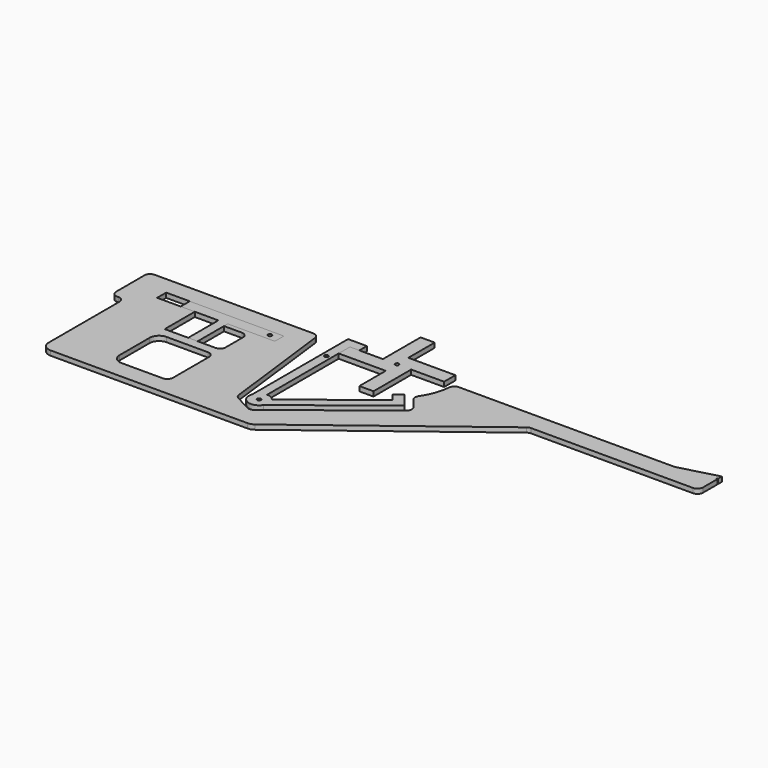
from build123d import *

# Parameters (mm, degrees)
F1_DEPTH = 5
F2_R     = 2
F3_DEPTH = 5
F4_R     = 2
F5_DEPTH = 5.001
F6_R     = 2
F7_DEPTH = 5
F9_DEPTH = 5


with BuildPart() as f1:
    # F0 (on Top) → F1 (new body)
    with BuildSketch(Plane.XY):
        with BuildLine():
            ThreePointArc((0, 2), (1.414214, 1.414214), (2, 0))
            Line((2, 0), (15, 0))
            Line((15, 0), (50, 0))
            Line((50, 0), (50, 15))
            Line((50, 15), (0, 15))
            Line((0, 15), (0, 2))
        make_face()
        with BuildLine():
            Line((15, 0), (2, 0))
            ThreePointArc((2, 0), (1.414214, -1.414214), (0, -2))
            Line((0, -2), (0, -15))
            Line((0, -15), (0, -50))
            Line((0, -50), (15, -50))
            Line((15, -50), (15, 0))
        make_face()
        with BuildLine():
            Line((0, -15), (0, -2))
            ThreePointArc((0, -2), (-1.414214, -1.414214), (-2, 0))
            Line((-2, 0), (-15, 0))
            Line((-15, 0), (-50, 0))
            Line((-50, 0), (-50, -15))
            Line((-50, -15), (0, -15))
        make_face()
        with BuildLine():
            Line((-15, 0), (-2, 0))
            ThreePointArc((-2, 0), (-1.414214, 1.414214), (0, 2))
            Line((0, 2), (0, 15))
            Line((0, 15), (0, 50))
            Line((0, 50), (-15, 50))
            Line((-15, 50), (-15, 0))
        make_face()
    extrude(amount=F1_DEPTH)


with BuildPart() as f3:
    # F2 (on Top) → F3 (new body)
    with BuildSketch(Plane.XY):
        with BuildLine():
            Line((-50, -110), (-50, 0))
            Line((-50, 0), (-40, 0))
            Line((-40, 0), (-40, 10))
            Line((-40, 10), (-60, 10))
            Line((-60, 10), (-60, -116.874192))
            ThreePointArc((-60, -116.874192), (-56.067424, -111.884297), (-50, -110))
        make_face()
        with BuildLine():
            ThreePointArc((-41.55987, -114.116526), (-45.304748, -111.083984), (-50, -110))
            ThreePointArc((-50, -110), (-56.067424, -111.884297), (-60, -116.874192))
            ThreePointArc((-60, -116.874192), (-54.695252, -130.337372), (-40.820193, -126.228809))
            ThreePointArc((-40.820193, -126.228809), (-39.679133, -123.573951), (-39.289322, -120.710678))
            ThreePointArc((-39.289322, -120.710678), (-39.872855, -117.223622), (-41.55987, -114.116526))
        make_face()
        with Locations((-50, -120.710678)):
            Circle(F2_R, mode=Mode.SUBTRACT)
        with BuildLine():
            Line((37.241205, -52.550379), (-41.55987, -114.116526))
            ThreePointArc((-41.55987, -114.116526), (-39.872855, -117.223622), (-39.289322, -120.710678))
            ThreePointArc((-39.289322, -120.710678), (-39.679133, -123.573951), (-40.820193, -126.228809))
            Line((-40.820193, -126.228809), (51.277927, -54.273871))
            Line((51.277927, -54.273871), (45.121312, -46.393764))
            Line((45.121312, -46.393764), (38.964698, -38.513656))
            Line((38.964698, -38.513656), (31.08459, -44.670271))
            Line((31.08459, -44.670271), (37.241205, -52.550379))
        make_face()
    extrude(amount=F3_DEPTH)

    # F4 (on face) → F5 (cut, through all)
    with BuildSketch(Plane.XY.offset(5)):
        with Locations((-55, -25)):
            Circle(F4_R)
    extrude(amount=-F5_DEPTH, mode=Mode.SUBTRACT)


with BuildPart() as f7:
    # F6 (on Top) → F7 (new body)
    with BuildSketch(Plane.XY):
        Polygon((-155, -71), (-155, -31), (-105, -31), (-105, -19), (-205, -19), (-205, -31), (-165, -31), (-165, -71), align=None)
        with Locations((-115, -25)):
            Circle(F6_R, mode=Mode.SUBTRACT)
    extrude(amount=F7_DEPTH)


with BuildPart() as f9:
    # F8 (on Top) → F9 (new body)
    with BuildSketch(Plane.XY):
        with BuildLine():
            Line((336.331827, -14.014457), (336.331827, 4.985543))
            Line((336.331827, 4.985543), (335.331827, 4.985543))
            Line((335.331827, 4.985543), (335.331827, 5.985543))
            Line((335.331827, 5.985543), (336.331827, 5.985543))
            Line((336.331827, 5.985543), (336.331827, 10.985543))
            Line((336.331827, 10.985543), (295, -0.014457))
            Line((295, -0.014457), (65.725387, -0.014457))
            ThreePointArc((65.725387, -0.014457), (61.680675, -1.582719), (59.750352, -5.467688))
            ThreePointArc((59.750352, -5.467688), (56.527879, -20.114648), (49.773706, -33.504902))
            ThreePointArc((49.773706, -33.504902), (48.75483, -37.067601), (50.023011, -40.549361))
            Line((50.023011, -40.549361), (58.939137, -51.96148))
            ThreePointArc((58.939137, -51.96148), (60.166334, -56.386784), (57.904852, -60.383661))
            Line((57.904852, -60.383661), (-41.481147, -138.026132))
            ThreePointArc((-41.481147, -138.026132), (-44.647556, -139.274698), (-47.983677, -138.599894))
            Line((-47.983677, -138.599894), (-64.944742, -129.614677))
            ThreePointArc((-64.944742, -129.614677), (-67.078158, -127.714909), (-68.091269, -125.043919))
            Line((-68.091269, -125.043919), (-82.797807, -5.268784))
            ThreePointArc((-82.797807, -5.268784), (-84.777363, -1.506266), (-88.753084, 0))
            Line((-88.753084, 0), (-257.444733, 0))
            ThreePointArc((-257.444733, 0), (-261.687373, -1.757359), (-263.444733, -5.999999))
            Line((-263.444733, -5.999999), (-263.444733, -44))
            ThreePointArc((-263.444733, -44), (-261.687373, -48.242641), (-257.444733, -50))
            Line((-257.444733, -50), (-256, -50))
            ThreePointArc((-256, -50), (-251.757359, -51.757359), (-250, -56))
            Line((-250, -56), (-250, -150))
            ThreePointArc((-250, -150), (-247.071068, -157.071068), (-240, -160))
            Line((-240, -160), (-30.673263, -160))
            ThreePointArc((-30.673263, -160), (-27.473794, -159.474355), (-24.610682, -157.95268))
            Line((-24.610682, -157.95268), (154.720465, -21.242849))
            ThreePointArc((154.720465, -21.242849), (156.438332, -20.329844), (158.358013, -20.014457))
            Line((158.358013, -20.014457), (330.331827, -20.014457))
            ThreePointArc((330.331827, -20.014457), (334.574467, -18.257098), (336.331827, -14.014457))
        make_face()
        with BuildLine():
            Line((-180, -81), (-136, -81))
            ThreePointArc((-136, -81), (-131.757359, -82.757359), (-130, -87))
            Line((-130, -87), (-130, -135))
            ThreePointArc((-130, -135), (-131.757359, -139.242641), (-136, -141))
            Line((-136, -141), (-180, -141))
            ThreePointArc((-180, -141), (-187.071068, -138.071068), (-190, -131))
            Line((-190, -131), (-190, -91))
            ThreePointArc((-190, -91), (-187.071068, -83.928932), (-180, -81))
        make_face(mode=Mode.SUBTRACT)
        with BuildLine():
            Line((-230, -19), (-105, -19))
            Line((-105, -19), (-105, -31))
            Line((-105, -31), (-155, -31))
            Line((-155, -31), (-155, -36))
            Line((-155, -36), (-136, -36))
            ThreePointArc((-136, -36), (-131.757359, -37.757359), (-130, -42))
            Line((-130, -42), (-130, -65))
            ThreePointArc((-130, -65), (-131.757359, -69.242641), (-136, -71))
            Line((-136, -71), (-190, -71))
            Line((-190, -71), (-190, -31))
            Line((-190, -31), (-230, -31))
            Line((-230, -31), (-230, -19))
        make_face(mode=Mode.SUBTRACT)
    extrude(amount=F9_DEPTH)


solid = Compound([f1.part, f3.part, f7.part, f9.part])
